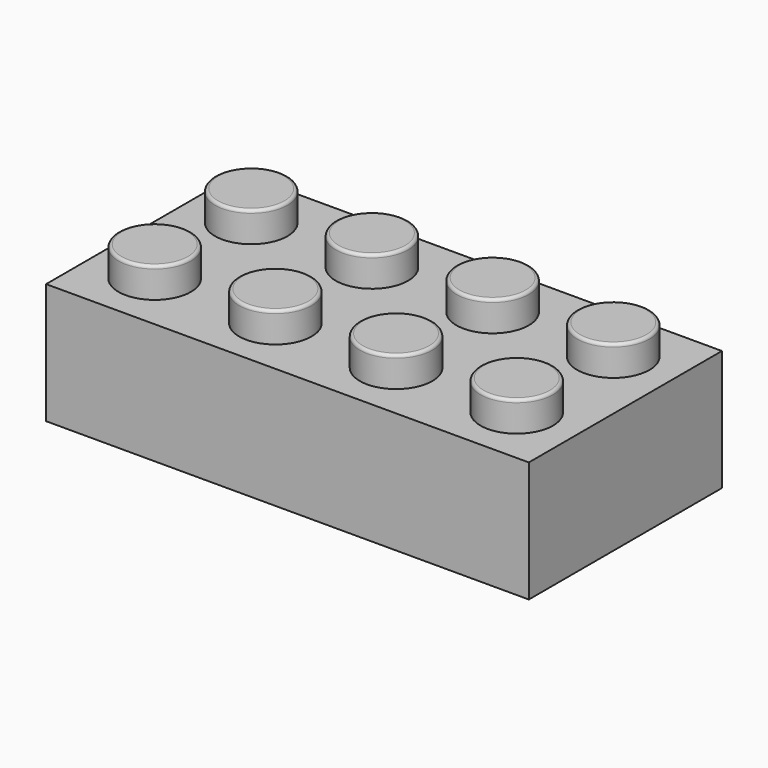
from build123d import *

# Parameters (mm, degrees)
F0_W     = 160
F0_H     = 80
F1_DEPTH = 40
F2_W     = 144
F2_H     = 64
F3_DEPTH = 30
F4_R     = 12
F5_DEPTH = 10
F6_R     = 1


with BuildPart() as f1:
    # F0 (on Top) → F1 (new body)
    with BuildSketch(Plane.XY):
        with Locations((-12.8571428359, 3.7671227164)):
            Rectangle(F0_W, F0_H)
    extrude(amount=F1_DEPTH)

    # F2 (on face) → F3 (cut)
    with BuildSketch(Plane(origin=(0, 0, 0), x_dir=(1, 0, 0), z_dir=(0, 0, -1))):
        with Locations((-12.8571428359, -3.7671227164)):
            Rectangle(F2_W, F2_H)
    extrude(amount=-F3_DEPTH, mode=Mode.SUBTRACT)

    # F4 (on face) → F5 (join)
    with BuildSketch(Plane.XY.offset(40)):
        with Locations((-72.8571428359, 23.7671227164)):
            Circle(F4_R)
        with Locations((-72.8571428359, -16.2328772836)):
            Circle(F4_R)
        with Locations((-32.8571428359, 23.7671227164)):
            Circle(F4_R)
        with Locations((-32.8571428359, -16.2328772836)):
            Circle(F4_R)
        with Locations((7.1428571641, 23.7671227164)):
            Circle(F4_R)
        with Locations((7.1428571641, -16.2328772836)):
            Circle(F4_R)
        with Locations((47.1428571641, 23.7671227164)):
            Circle(F4_R)
        with Locations((47.1428571641, -16.2328772836)):
            Circle(F4_R)
    extrude(amount=F5_DEPTH)

    # F6
    f6_edges = [f1.edges().sort_by_distance(p)[0] for p in [
        (-84.857143, 23.767123, 50),
        (-44.857143, -16.232877, 50),
        (-44.857143, 23.767123, 50),
        (-84.857143, -16.232877, 50),
        (-4.857143, -16.232877, 50),
        (-4.857143, 23.767123, 50),
        (35.142857, -16.232877, 50),
        (35.142857, 23.767123, 50),
    ]]
    fillet(f6_edges, radius=F6_R)


solid = f1.part
